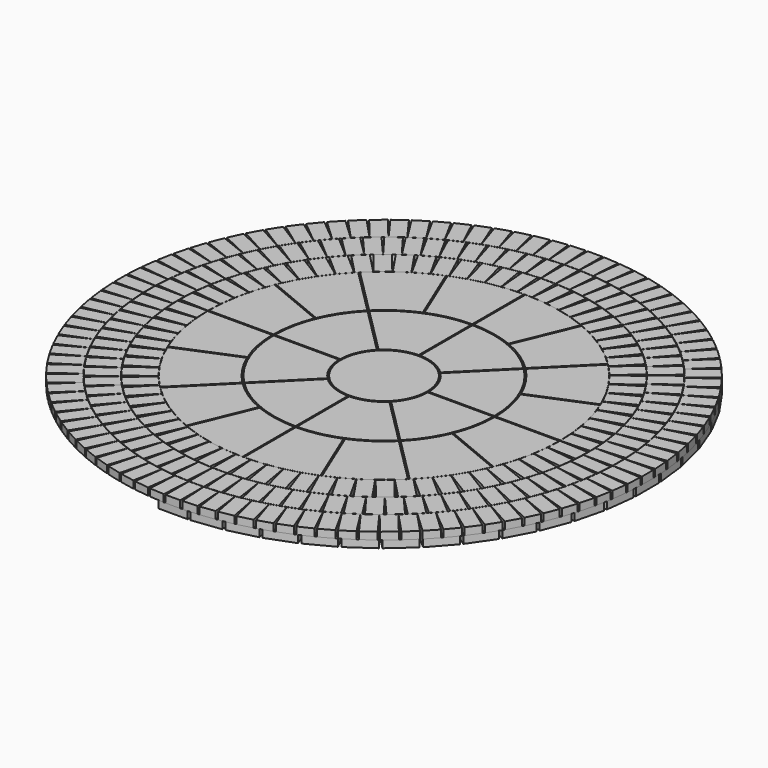
from build123d import *

# Parameters (mm, degrees)
F1_DEPTH  = 50
F3_COUNT  = 74
F4_W      = 100
F4_H      = 200
F5_DEPTH  = 50
F5_FACE_W = 100
F5_FACE_H = 200
F6_DEPTH  = 50
F7_COUNT  = 88
F9_DEPTH  = 50
F10_COUNT = 100
F12_DEPTH = 25
F13_COUNT = 16
F15_DEPTH = 25
F16_COUNT = 8
F17_R     = 295
F18_DEPTH = 25
F19_W     = 200
F19_H     = 100
F20_DEPTH = 50
F21_COUNT = 27
F21_ANGLE = 180


with BuildPart() as f1:
    # F0 (on Top) → F1 (new body)
    with BuildSketch(Plane.XY):
        Polygon((-50, 1210), (0, 1210), (50, 1210), (50, 1410), (0, 1410), (-50, 1410), align=None)
    extrude(amount=-F1_DEPTH)


with BuildPart() as f3_1:
    # F3: instance of F1
    add(f1.part.rotate(Axis((0, 0, 233.70491), (0, 0, 1)), 1 * 360 / F3_COUNT))


with BuildPart() as f3_2:
    # F3: instance of F1
    add(f1.part.rotate(Axis((0, 0, 233.70491), (0, 0, 1)), 2 * 360 / F3_COUNT))


with BuildPart() as f3_3:
    # F3: instance of F1
    add(f1.part.rotate(Axis((0, 0, 233.70491), (0, 0, 1)), 3 * 360 / F3_COUNT))


with BuildPart() as f3_4:
    # F3: instance of F1
    add(f1.part.rotate(Axis((0, 0, 233.70491), (0, 0, 1)), 4 * 360 / F3_COUNT))


with BuildPart() as f3_5:
    # F3: instance of F1
    add(f1.part.rotate(Axis((0, 0, 233.70491), (0, 0, 1)), 5 * 360 / F3_COUNT))


with BuildPart() as f3_6:
    # F3: instance of F1
    add(f1.part.rotate(Axis((0, 0, 233.70491), (0, 0, 1)), 6 * 360 / F3_COUNT))


with BuildPart() as f3_7:
    # F3: instance of F1
    add(f1.part.rotate(Axis((0, 0, 233.70491), (0, 0, 1)), 7 * 360 / F3_COUNT))


with BuildPart() as f3_8:
    # F3: instance of F1
    add(f1.part.rotate(Axis((0, 0, 233.70491), (0, 0, 1)), 8 * 360 / F3_COUNT))


with BuildPart() as f3_9:
    # F3: instance of F1
    add(f1.part.rotate(Axis((0, 0, 233.70491), (0, 0, 1)), 9 * 360 / F3_COUNT))


with BuildPart() as f3_10:
    # F3: instance of F1
    add(f1.part.rotate(Axis((0, 0, 233.70491), (0, 0, 1)), 10 * 360 / F3_COUNT))


with BuildPart() as f3_11:
    # F3: instance of F1
    add(f1.part.rotate(Axis((0, 0, 233.70491), (0, 0, 1)), 11 * 360 / F3_COUNT))


with BuildPart() as f3_12:
    # F3: instance of F1
    add(f1.part.rotate(Axis((0, 0, 233.70491), (0, 0, 1)), 12 * 360 / F3_COUNT))


with BuildPart() as f3_13:
    # F3: instance of F1
    add(f1.part.rotate(Axis((0, 0, 233.70491), (0, 0, 1)), 13 * 360 / F3_COUNT))


with BuildPart() as f3_14:
    # F3: instance of F1
    add(f1.part.rotate(Axis((0, 0, 233.70491), (0, 0, 1)), 14 * 360 / F3_COUNT))


with BuildPart() as f3_15:
    # F3: instance of F1
    add(f1.part.rotate(Axis((0, 0, 233.70491), (0, 0, 1)), 15 * 360 / F3_COUNT))


with BuildPart() as f3_16:
    # F3: instance of F1
    add(f1.part.rotate(Axis((0, 0, 233.70491), (0, 0, 1)), 16 * 360 / F3_COUNT))


with BuildPart() as f3_17:
    # F3: instance of F1
    add(f1.part.rotate(Axis((0, 0, 233.70491), (0, 0, 1)), 17 * 360 / F3_COUNT))


with BuildPart() as f3_18:
    # F3: instance of F1
    add(f1.part.rotate(Axis((0, 0, 233.70491), (0, 0, 1)), 18 * 360 / F3_COUNT))


with BuildPart() as f3_19:
    # F3: instance of F1
    add(f1.part.rotate(Axis((0, 0, 233.70491), (0, 0, 1)), 19 * 360 / F3_COUNT))


with BuildPart() as f3_20:
    # F3: instance of F1
    add(f1.part.rotate(Axis((0, 0, 233.70491), (0, 0, 1)), 20 * 360 / F3_COUNT))


with BuildPart() as f3_21:
    # F3: instance of F1
    add(f1.part.rotate(Axis((0, 0, 233.70491), (0, 0, 1)), 21 * 360 / F3_COUNT))


with BuildPart() as f3_22:
    # F3: instance of F1
    add(f1.part.rotate(Axis((0, 0, 233.70491), (0, 0, 1)), 22 * 360 / F3_COUNT))


with BuildPart() as f3_23:
    # F3: instance of F1
    add(f1.part.rotate(Axis((0, 0, 233.70491), (0, 0, 1)), 23 * 360 / F3_COUNT))


with BuildPart() as f3_24:
    # F3: instance of F1
    add(f1.part.rotate(Axis((0, 0, 233.70491), (0, 0, 1)), 24 * 360 / F3_COUNT))


with BuildPart() as f3_25:
    # F3: instance of F1
    add(f1.part.rotate(Axis((0, 0, 233.70491), (0, 0, 1)), 25 * 360 / F3_COUNT))


with BuildPart() as f3_26:
    # F3: instance of F1
    add(f1.part.rotate(Axis((0, 0, 233.70491), (0, 0, 1)), 26 * 360 / F3_COUNT))


with BuildPart() as f3_27:
    # F3: instance of F1
    add(f1.part.rotate(Axis((0, 0, 233.70491), (0, 0, 1)), 27 * 360 / F3_COUNT))


with BuildPart() as f3_28:
    # F3: instance of F1
    add(f1.part.rotate(Axis((0, 0, 233.70491), (0, 0, 1)), 28 * 360 / F3_COUNT))


with BuildPart() as f3_29:
    # F3: instance of F1
    add(f1.part.rotate(Axis((0, 0, 233.70491), (0, 0, 1)), 29 * 360 / F3_COUNT))


with BuildPart() as f3_30:
    # F3: instance of F1
    add(f1.part.rotate(Axis((0, 0, 233.70491), (0, 0, 1)), 30 * 360 / F3_COUNT))


with BuildPart() as f3_31:
    # F3: instance of F1
    add(f1.part.rotate(Axis((0, 0, 233.70491), (0, 0, 1)), 31 * 360 / F3_COUNT))


with BuildPart() as f3_32:
    # F3: instance of F1
    add(f1.part.rotate(Axis((0, 0, 233.70491), (0, 0, 1)), 32 * 360 / F3_COUNT))


with BuildPart() as f3_33:
    # F3: instance of F1
    add(f1.part.rotate(Axis((0, 0, 233.70491), (0, 0, 1)), 33 * 360 / F3_COUNT))


with BuildPart() as f3_34:
    # F3: instance of F1
    add(f1.part.rotate(Axis((0, 0, 233.70491), (0, 0, 1)), 34 * 360 / F3_COUNT))


with BuildPart() as f3_35:
    # F3: instance of F1
    add(f1.part.rotate(Axis((0, 0, 233.70491), (0, 0, 1)), 35 * 360 / F3_COUNT))


with BuildPart() as f3_36:
    # F3: instance of F1
    add(f1.part.rotate(Axis((0, 0, 233.70491), (0, 0, 1)), 36 * 360 / F3_COUNT))


with BuildPart() as f3_37:
    # F3: instance of F1
    add(f1.part.rotate(Axis((0, 0, 233.70491), (0, 0, 1)), 37 * 360 / F3_COUNT))


with BuildPart() as f3_38:
    # F3: instance of F1
    add(f1.part.rotate(Axis((0, 0, 233.70491), (0, 0, 1)), 38 * 360 / F3_COUNT))


with BuildPart() as f3_39:
    # F3: instance of F1
    add(f1.part.rotate(Axis((0, 0, 233.70491), (0, 0, 1)), 39 * 360 / F3_COUNT))


with BuildPart() as f3_40:
    # F3: instance of F1
    add(f1.part.rotate(Axis((0, 0, 233.70491), (0, 0, 1)), 40 * 360 / F3_COUNT))


with BuildPart() as f3_41:
    # F3: instance of F1
    add(f1.part.rotate(Axis((0, 0, 233.70491), (0, 0, 1)), 41 * 360 / F3_COUNT))


with BuildPart() as f3_42:
    # F3: instance of F1
    add(f1.part.rotate(Axis((0, 0, 233.70491), (0, 0, 1)), 42 * 360 / F3_COUNT))


with BuildPart() as f3_43:
    # F3: instance of F1
    add(f1.part.rotate(Axis((0, 0, 233.70491), (0, 0, 1)), 43 * 360 / F3_COUNT))


with BuildPart() as f3_44:
    # F3: instance of F1
    add(f1.part.rotate(Axis((0, 0, 233.70491), (0, 0, 1)), 44 * 360 / F3_COUNT))


with BuildPart() as f3_45:
    # F3: instance of F1
    add(f1.part.rotate(Axis((0, 0, 233.70491), (0, 0, 1)), 45 * 360 / F3_COUNT))


with BuildPart() as f3_46:
    # F3: instance of F1
    add(f1.part.rotate(Axis((0, 0, 233.70491), (0, 0, 1)), 46 * 360 / F3_COUNT))


with BuildPart() as f3_47:
    # F3: instance of F1
    add(f1.part.rotate(Axis((0, 0, 233.70491), (0, 0, 1)), 47 * 360 / F3_COUNT))


with BuildPart() as f3_48:
    # F3: instance of F1
    add(f1.part.rotate(Axis((0, 0, 233.70491), (0, 0, 1)), 48 * 360 / F3_COUNT))


with BuildPart() as f3_49:
    # F3: instance of F1
    add(f1.part.rotate(Axis((0, 0, 233.70491), (0, 0, 1)), 49 * 360 / F3_COUNT))


with BuildPart() as f3_50:
    # F3: instance of F1
    add(f1.part.rotate(Axis((0, 0, 233.70491), (0, 0, 1)), 50 * 360 / F3_COUNT))


with BuildPart() as f3_51:
    # F3: instance of F1
    add(f1.part.rotate(Axis((0, 0, 233.70491), (0, 0, 1)), 51 * 360 / F3_COUNT))


with BuildPart() as f3_52:
    # F3: instance of F1
    add(f1.part.rotate(Axis((0, 0, 233.70491), (0, 0, 1)), 52 * 360 / F3_COUNT))


with BuildPart() as f3_53:
    # F3: instance of F1
    add(f1.part.rotate(Axis((0, 0, 233.70491), (0, 0, 1)), 53 * 360 / F3_COUNT))


with BuildPart() as f3_54:
    # F3: instance of F1
    add(f1.part.rotate(Axis((0, 0, 233.70491), (0, 0, 1)), 54 * 360 / F3_COUNT))


with BuildPart() as f3_55:
    # F3: instance of F1
    add(f1.part.rotate(Axis((0, 0, 233.70491), (0, 0, 1)), 55 * 360 / F3_COUNT))


with BuildPart() as f3_56:
    # F3: instance of F1
    add(f1.part.rotate(Axis((0, 0, 233.70491), (0, 0, 1)), 56 * 360 / F3_COUNT))


with BuildPart() as f3_57:
    # F3: instance of F1
    add(f1.part.rotate(Axis((0, 0, 233.70491), (0, 0, 1)), 57 * 360 / F3_COUNT))


with BuildPart() as f3_58:
    # F3: instance of F1
    add(f1.part.rotate(Axis((0, 0, 233.70491), (0, 0, 1)), 58 * 360 / F3_COUNT))


with BuildPart() as f3_59:
    # F3: instance of F1
    add(f1.part.rotate(Axis((0, 0, 233.70491), (0, 0, 1)), 59 * 360 / F3_COUNT))


with BuildPart() as f3_60:
    # F3: instance of F1
    add(f1.part.rotate(Axis((0, 0, 233.70491), (0, 0, 1)), 60 * 360 / F3_COUNT))


with BuildPart() as f3_61:
    # F3: instance of F1
    add(f1.part.rotate(Axis((0, 0, 233.70491), (0, 0, 1)), 61 * 360 / F3_COUNT))


with BuildPart() as f3_62:
    # F3: instance of F1
    add(f1.part.rotate(Axis((0, 0, 233.70491), (0, 0, 1)), 62 * 360 / F3_COUNT))


with BuildPart() as f3_63:
    # F3: instance of F1
    add(f1.part.rotate(Axis((0, 0, 233.70491), (0, 0, 1)), 63 * 360 / F3_COUNT))


with BuildPart() as f3_64:
    # F3: instance of F1
    add(f1.part.rotate(Axis((0, 0, 233.70491), (0, 0, 1)), 64 * 360 / F3_COUNT))


with BuildPart() as f3_65:
    # F3: instance of F1
    add(f1.part.rotate(Axis((0, 0, 233.70491), (0, 0, 1)), 65 * 360 / F3_COUNT))


with BuildPart() as f3_66:
    # F3: instance of F1
    add(f1.part.rotate(Axis((0, 0, 233.70491), (0, 0, 1)), 66 * 360 / F3_COUNT))


with BuildPart() as f3_67:
    # F3: instance of F1
    add(f1.part.rotate(Axis((0, 0, 233.70491), (0, 0, 1)), 67 * 360 / F3_COUNT))


with BuildPart() as f3_68:
    # F3: instance of F1
    add(f1.part.rotate(Axis((0, 0, 233.70491), (0, 0, 1)), 68 * 360 / F3_COUNT))


with BuildPart() as f3_69:
    # F3: instance of F1
    add(f1.part.rotate(Axis((0, 0, 233.70491), (0, 0, 1)), 69 * 360 / F3_COUNT))


with BuildPart() as f3_70:
    # F3: instance of F1
    add(f1.part.rotate(Axis((0, 0, 233.70491), (0, 0, 1)), 70 * 360 / F3_COUNT))


with BuildPart() as f3_71:
    # F3: instance of F1
    add(f1.part.rotate(Axis((0, 0, 233.70491), (0, 0, 1)), 71 * 360 / F3_COUNT))


with BuildPart() as f3_72:
    # F3: instance of F1
    add(f1.part.rotate(Axis((0, 0, 233.70491), (0, 0, 1)), 72 * 360 / F3_COUNT))


with BuildPart() as f3_73:
    # F3: instance of F1
    add(f1.part.rotate(Axis((0, 0, 233.70491), (0, 0, 1)), 73 * 360 / F3_COUNT))


with BuildPart() as f5:
    # F4 (on Top) → F5 (new body)
    with BuildSketch(Plane.XY):
        with Locations((0, 1512)):
            Rectangle(F4_W, F4_H)
    extrude(amount=-F5_DEPTH)

    # F5_face (on face) → F6 (join)
    with BuildSketch(Plane(origin=(0, 1512, 0), x_dir=(1, 0, 0), z_dir=(0, 0, 1))):
        Rectangle(F5_FACE_W, F5_FACE_H)
    extrude(amount=-F6_DEPTH)


with BuildPart() as f7_1:
    # F7: instance of F5
    add(f5.part.rotate(Axis((0, 0, 233.70491), (0, 0, 1)), 1 * 360 / F7_COUNT))


with BuildPart() as f7_2:
    # F7: instance of F5
    add(f5.part.rotate(Axis((0, 0, 233.70491), (0, 0, 1)), 2 * 360 / F7_COUNT))


with BuildPart() as f7_3:
    # F7: instance of F5
    add(f5.part.rotate(Axis((0, 0, 233.70491), (0, 0, 1)), 3 * 360 / F7_COUNT))


with BuildPart() as f7_4:
    # F7: instance of F5
    add(f5.part.rotate(Axis((0, 0, 233.70491), (0, 0, 1)), 4 * 360 / F7_COUNT))


with BuildPart() as f7_5:
    # F7: instance of F5
    add(f5.part.rotate(Axis((0, 0, 233.70491), (0, 0, 1)), 5 * 360 / F7_COUNT))


with BuildPart() as f7_6:
    # F7: instance of F5
    add(f5.part.rotate(Axis((0, 0, 233.70491), (0, 0, 1)), 6 * 360 / F7_COUNT))


with BuildPart() as f7_7:
    # F7: instance of F5
    add(f5.part.rotate(Axis((0, 0, 233.70491), (0, 0, 1)), 7 * 360 / F7_COUNT))


with BuildPart() as f7_8:
    # F7: instance of F5
    add(f5.part.rotate(Axis((0, 0, 233.70491), (0, 0, 1)), 8 * 360 / F7_COUNT))


with BuildPart() as f7_9:
    # F7: instance of F5
    add(f5.part.rotate(Axis((0, 0, 233.70491), (0, 0, 1)), 9 * 360 / F7_COUNT))


with BuildPart() as f7_10:
    # F7: instance of F5
    add(f5.part.rotate(Axis((0, 0, 233.70491), (0, 0, 1)), 10 * 360 / F7_COUNT))


with BuildPart() as f7_11:
    # F7: instance of F5
    add(f5.part.rotate(Axis((0, 0, 233.70491), (0, 0, 1)), 11 * 360 / F7_COUNT))


with BuildPart() as f7_12:
    # F7: instance of F5
    add(f5.part.rotate(Axis((0, 0, 233.70491), (0, 0, 1)), 12 * 360 / F7_COUNT))


with BuildPart() as f7_13:
    # F7: instance of F5
    add(f5.part.rotate(Axis((0, 0, 233.70491), (0, 0, 1)), 13 * 360 / F7_COUNT))


with BuildPart() as f7_14:
    # F7: instance of F5
    add(f5.part.rotate(Axis((0, 0, 233.70491), (0, 0, 1)), 14 * 360 / F7_COUNT))


with BuildPart() as f7_15:
    # F7: instance of F5
    add(f5.part.rotate(Axis((0, 0, 233.70491), (0, 0, 1)), 15 * 360 / F7_COUNT))


with BuildPart() as f7_16:
    # F7: instance of F5
    add(f5.part.rotate(Axis((0, 0, 233.70491), (0, 0, 1)), 16 * 360 / F7_COUNT))


with BuildPart() as f7_17:
    # F7: instance of F5
    add(f5.part.rotate(Axis((0, 0, 233.70491), (0, 0, 1)), 17 * 360 / F7_COUNT))


with BuildPart() as f7_18:
    # F7: instance of F5
    add(f5.part.rotate(Axis((0, 0, 233.70491), (0, 0, 1)), 18 * 360 / F7_COUNT))


with BuildPart() as f7_19:
    # F7: instance of F5
    add(f5.part.rotate(Axis((0, 0, 233.70491), (0, 0, 1)), 19 * 360 / F7_COUNT))


with BuildPart() as f7_20:
    # F7: instance of F5
    add(f5.part.rotate(Axis((0, 0, 233.70491), (0, 0, 1)), 20 * 360 / F7_COUNT))


with BuildPart() as f7_21:
    # F7: instance of F5
    add(f5.part.rotate(Axis((0, 0, 233.70491), (0, 0, 1)), 21 * 360 / F7_COUNT))


with BuildPart() as f7_22:
    # F7: instance of F5
    add(f5.part.rotate(Axis((0, 0, 233.70491), (0, 0, 1)), 22 * 360 / F7_COUNT))


with BuildPart() as f7_23:
    # F7: instance of F5
    add(f5.part.rotate(Axis((0, 0, 233.70491), (0, 0, 1)), 23 * 360 / F7_COUNT))


with BuildPart() as f7_24:
    # F7: instance of F5
    add(f5.part.rotate(Axis((0, 0, 233.70491), (0, 0, 1)), 24 * 360 / F7_COUNT))


with BuildPart() as f7_25:
    # F7: instance of F5
    add(f5.part.rotate(Axis((0, 0, 233.70491), (0, 0, 1)), 25 * 360 / F7_COUNT))


with BuildPart() as f7_26:
    # F7: instance of F5
    add(f5.part.rotate(Axis((0, 0, 233.70491), (0, 0, 1)), 26 * 360 / F7_COUNT))


with BuildPart() as f7_27:
    # F7: instance of F5
    add(f5.part.rotate(Axis((0, 0, 233.70491), (0, 0, 1)), 27 * 360 / F7_COUNT))


with BuildPart() as f7_28:
    # F7: instance of F5
    add(f5.part.rotate(Axis((0, 0, 233.70491), (0, 0, 1)), 28 * 360 / F7_COUNT))


with BuildPart() as f7_29:
    # F7: instance of F5
    add(f5.part.rotate(Axis((0, 0, 233.70491), (0, 0, 1)), 29 * 360 / F7_COUNT))


with BuildPart() as f7_30:
    # F7: instance of F5
    add(f5.part.rotate(Axis((0, 0, 233.70491), (0, 0, 1)), 30 * 360 / F7_COUNT))


with BuildPart() as f7_31:
    # F7: instance of F5
    add(f5.part.rotate(Axis((0, 0, 233.70491), (0, 0, 1)), 31 * 360 / F7_COUNT))


with BuildPart() as f7_32:
    # F7: instance of F5
    add(f5.part.rotate(Axis((0, 0, 233.70491), (0, 0, 1)), 32 * 360 / F7_COUNT))


with BuildPart() as f7_33:
    # F7: instance of F5
    add(f5.part.rotate(Axis((0, 0, 233.70491), (0, 0, 1)), 33 * 360 / F7_COUNT))


with BuildPart() as f7_34:
    # F7: instance of F5
    add(f5.part.rotate(Axis((0, 0, 233.70491), (0, 0, 1)), 34 * 360 / F7_COUNT))


with BuildPart() as f7_35:
    # F7: instance of F5
    add(f5.part.rotate(Axis((0, 0, 233.70491), (0, 0, 1)), 35 * 360 / F7_COUNT))


with BuildPart() as f7_36:
    # F7: instance of F5
    add(f5.part.rotate(Axis((0, 0, 233.70491), (0, 0, 1)), 36 * 360 / F7_COUNT))


with BuildPart() as f7_37:
    # F7: instance of F5
    add(f5.part.rotate(Axis((0, 0, 233.70491), (0, 0, 1)), 37 * 360 / F7_COUNT))


with BuildPart() as f7_38:
    # F7: instance of F5
    add(f5.part.rotate(Axis((0, 0, 233.70491), (0, 0, 1)), 38 * 360 / F7_COUNT))


with BuildPart() as f7_39:
    # F7: instance of F5
    add(f5.part.rotate(Axis((0, 0, 233.70491), (0, 0, 1)), 39 * 360 / F7_COUNT))


with BuildPart() as f7_40:
    # F7: instance of F5
    add(f5.part.rotate(Axis((0, 0, 233.70491), (0, 0, 1)), 40 * 360 / F7_COUNT))


with BuildPart() as f7_41:
    # F7: instance of F5
    add(f5.part.rotate(Axis((0, 0, 233.70491), (0, 0, 1)), 41 * 360 / F7_COUNT))


with BuildPart() as f7_42:
    # F7: instance of F5
    add(f5.part.rotate(Axis((0, 0, 233.70491), (0, 0, 1)), 42 * 360 / F7_COUNT))


with BuildPart() as f7_43:
    # F7: instance of F5
    add(f5.part.rotate(Axis((0, 0, 233.70491), (0, 0, 1)), 43 * 360 / F7_COUNT))


with BuildPart() as f7_44:
    # F7: instance of F5
    add(f5.part.rotate(Axis((0, 0, 233.70491), (0, 0, 1)), 44 * 360 / F7_COUNT))


with BuildPart() as f7_45:
    # F7: instance of F5
    add(f5.part.rotate(Axis((0, 0, 233.70491), (0, 0, 1)), 45 * 360 / F7_COUNT))


with BuildPart() as f7_46:
    # F7: instance of F5
    add(f5.part.rotate(Axis((0, 0, 233.70491), (0, 0, 1)), 46 * 360 / F7_COUNT))


with BuildPart() as f7_47:
    # F7: instance of F5
    add(f5.part.rotate(Axis((0, 0, 233.70491), (0, 0, 1)), 47 * 360 / F7_COUNT))


with BuildPart() as f7_48:
    # F7: instance of F5
    add(f5.part.rotate(Axis((0, 0, 233.70491), (0, 0, 1)), 48 * 360 / F7_COUNT))


with BuildPart() as f7_49:
    # F7: instance of F5
    add(f5.part.rotate(Axis((0, 0, 233.70491), (0, 0, 1)), 49 * 360 / F7_COUNT))


with BuildPart() as f7_50:
    # F7: instance of F5
    add(f5.part.rotate(Axis((0, 0, 233.70491), (0, 0, 1)), 50 * 360 / F7_COUNT))


with BuildPart() as f7_51:
    # F7: instance of F5
    add(f5.part.rotate(Axis((0, 0, 233.70491), (0, 0, 1)), 51 * 360 / F7_COUNT))


with BuildPart() as f7_52:
    # F7: instance of F5
    add(f5.part.rotate(Axis((0, 0, 233.70491), (0, 0, 1)), 52 * 360 / F7_COUNT))


with BuildPart() as f7_53:
    # F7: instance of F5
    add(f5.part.rotate(Axis((0, 0, 233.70491), (0, 0, 1)), 53 * 360 / F7_COUNT))


with BuildPart() as f7_54:
    # F7: instance of F5
    add(f5.part.rotate(Axis((0, 0, 233.70491), (0, 0, 1)), 54 * 360 / F7_COUNT))


with BuildPart() as f7_55:
    # F7: instance of F5
    add(f5.part.rotate(Axis((0, 0, 233.70491), (0, 0, 1)), 55 * 360 / F7_COUNT))


with BuildPart() as f7_56:
    # F7: instance of F5
    add(f5.part.rotate(Axis((0, 0, 233.70491), (0, 0, 1)), 56 * 360 / F7_COUNT))


with BuildPart() as f7_57:
    # F7: instance of F5
    add(f5.part.rotate(Axis((0, 0, 233.70491), (0, 0, 1)), 57 * 360 / F7_COUNT))


with BuildPart() as f7_58:
    # F7: instance of F5
    add(f5.part.rotate(Axis((0, 0, 233.70491), (0, 0, 1)), 58 * 360 / F7_COUNT))


with BuildPart() as f7_59:
    # F7: instance of F5
    add(f5.part.rotate(Axis((0, 0, 233.70491), (0, 0, 1)), 59 * 360 / F7_COUNT))


with BuildPart() as f7_60:
    # F7: instance of F5
    add(f5.part.rotate(Axis((0, 0, 233.70491), (0, 0, 1)), 60 * 360 / F7_COUNT))


with BuildPart() as f7_61:
    # F7: instance of F5
    add(f5.part.rotate(Axis((0, 0, 233.70491), (0, 0, 1)), 61 * 360 / F7_COUNT))


with BuildPart() as f7_62:
    # F7: instance of F5
    add(f5.part.rotate(Axis((0, 0, 233.70491), (0, 0, 1)), 62 * 360 / F7_COUNT))


with BuildPart() as f7_63:
    # F7: instance of F5
    add(f5.part.rotate(Axis((0, 0, 233.70491), (0, 0, 1)), 63 * 360 / F7_COUNT))


with BuildPart() as f7_64:
    # F7: instance of F5
    add(f5.part.rotate(Axis((0, 0, 233.70491), (0, 0, 1)), 64 * 360 / F7_COUNT))


with BuildPart() as f7_65:
    # F7: instance of F5
    add(f5.part.rotate(Axis((0, 0, 233.70491), (0, 0, 1)), 65 * 360 / F7_COUNT))


with BuildPart() as f7_66:
    # F7: instance of F5
    add(f5.part.rotate(Axis((0, 0, 233.70491), (0, 0, 1)), 66 * 360 / F7_COUNT))


with BuildPart() as f7_67:
    # F7: instance of F5
    add(f5.part.rotate(Axis((0, 0, 233.70491), (0, 0, 1)), 67 * 360 / F7_COUNT))


with BuildPart() as f7_68:
    # F7: instance of F5
    add(f5.part.rotate(Axis((0, 0, 233.70491), (0, 0, 1)), 68 * 360 / F7_COUNT))


with BuildPart() as f7_69:
    # F7: instance of F5
    add(f5.part.rotate(Axis((0, 0, 233.70491), (0, 0, 1)), 69 * 360 / F7_COUNT))


with BuildPart() as f7_70:
    # F7: instance of F5
    add(f5.part.rotate(Axis((0, 0, 233.70491), (0, 0, 1)), 70 * 360 / F7_COUNT))


with BuildPart() as f7_71:
    # F7: instance of F5
    add(f5.part.rotate(Axis((0, 0, 233.70491), (0, 0, 1)), 71 * 360 / F7_COUNT))


with BuildPart() as f7_72:
    # F7: instance of F5
    add(f5.part.rotate(Axis((0, 0, 233.70491), (0, 0, 1)), 72 * 360 / F7_COUNT))


with BuildPart() as f7_73:
    # F7: instance of F5
    add(f5.part.rotate(Axis((0, 0, 233.70491), (0, 0, 1)), 73 * 360 / F7_COUNT))


with BuildPart() as f7_74:
    # F7: instance of F5
    add(f5.part.rotate(Axis((0, 0, 233.70491), (0, 0, 1)), 74 * 360 / F7_COUNT))


with BuildPart() as f7_75:
    # F7: instance of F5
    add(f5.part.rotate(Axis((0, 0, 233.70491), (0, 0, 1)), 75 * 360 / F7_COUNT))


with BuildPart() as f7_76:
    # F7: instance of F5
    add(f5.part.rotate(Axis((0, 0, 233.70491), (0, 0, 1)), 76 * 360 / F7_COUNT))


with BuildPart() as f7_77:
    # F7: instance of F5
    add(f5.part.rotate(Axis((0, 0, 233.70491), (0, 0, 1)), 77 * 360 / F7_COUNT))


with BuildPart() as f7_78:
    # F7: instance of F5
    add(f5.part.rotate(Axis((0, 0, 233.70491), (0, 0, 1)), 78 * 360 / F7_COUNT))


with BuildPart() as f7_79:
    # F7: instance of F5
    add(f5.part.rotate(Axis((0, 0, 233.70491), (0, 0, 1)), 79 * 360 / F7_COUNT))


with BuildPart() as f7_80:
    # F7: instance of F5
    add(f5.part.rotate(Axis((0, 0, 233.70491), (0, 0, 1)), 80 * 360 / F7_COUNT))


with BuildPart() as f7_81:
    # F7: instance of F5
    add(f5.part.rotate(Axis((0, 0, 233.70491), (0, 0, 1)), 81 * 360 / F7_COUNT))


with BuildPart() as f7_82:
    # F7: instance of F5
    add(f5.part.rotate(Axis((0, 0, 233.70491), (0, 0, 1)), 82 * 360 / F7_COUNT))


with BuildPart() as f7_83:
    # F7: instance of F5
    add(f5.part.rotate(Axis((0, 0, 233.70491), (0, 0, 1)), 83 * 360 / F7_COUNT))


with BuildPart() as f7_84:
    # F7: instance of F5
    add(f5.part.rotate(Axis((0, 0, 233.70491), (0, 0, 1)), 84 * 360 / F7_COUNT))


with BuildPart() as f7_85:
    # F7: instance of F5
    add(f5.part.rotate(Axis((0, 0, 233.70491), (0, 0, 1)), 85 * 360 / F7_COUNT))


with BuildPart() as f7_86:
    # F7: instance of F5
    add(f5.part.rotate(Axis((0, 0, 233.70491), (0, 0, 1)), 86 * 360 / F7_COUNT))


with BuildPart() as f7_87:
    # F7: instance of F5
    add(f5.part.rotate(Axis((0, 0, 233.70491), (0, 0, 1)), 87 * 360 / F7_COUNT))


with BuildPart() as f9:
    # F8 (on Top) → F9 (new body)
    with BuildSketch(Plane.XY):
        Polygon((50, 1814), (-50, 1814), (-50, 1614), (0, 1614), (50, 1614), align=None)
    extrude(amount=-F9_DEPTH)


with BuildPart() as f10_1:
    # F10: instance of F9
    add(f9.part.rotate(Axis((0, 0, 233.70491), (0, 0, 1)), 1 * 360 / F10_COUNT))


with BuildPart() as f10_2:
    # F10: instance of F9
    add(f9.part.rotate(Axis((0, 0, 233.70491), (0, 0, 1)), 2 * 360 / F10_COUNT))


with BuildPart() as f10_3:
    # F10: instance of F9
    add(f9.part.rotate(Axis((0, 0, 233.70491), (0, 0, 1)), 3 * 360 / F10_COUNT))


with BuildPart() as f10_4:
    # F10: instance of F9
    add(f9.part.rotate(Axis((0, 0, 233.70491), (0, 0, 1)), 4 * 360 / F10_COUNT))


with BuildPart() as f10_5:
    # F10: instance of F9
    add(f9.part.rotate(Axis((0, 0, 233.70491), (0, 0, 1)), 5 * 360 / F10_COUNT))


with BuildPart() as f10_6:
    # F10: instance of F9
    add(f9.part.rotate(Axis((0, 0, 233.70491), (0, 0, 1)), 6 * 360 / F10_COUNT))


with BuildPart() as f10_7:
    # F10: instance of F9
    add(f9.part.rotate(Axis((0, 0, 233.70491), (0, 0, 1)), 7 * 360 / F10_COUNT))


with BuildPart() as f10_8:
    # F10: instance of F9
    add(f9.part.rotate(Axis((0, 0, 233.70491), (0, 0, 1)), 8 * 360 / F10_COUNT))


with BuildPart() as f10_9:
    # F10: instance of F9
    add(f9.part.rotate(Axis((0, 0, 233.70491), (0, 0, 1)), 9 * 360 / F10_COUNT))


with BuildPart() as f10_10:
    # F10: instance of F9
    add(f9.part.rotate(Axis((0, 0, 233.70491), (0, 0, 1)), 10 * 360 / F10_COUNT))


with BuildPart() as f10_11:
    # F10: instance of F9
    add(f9.part.rotate(Axis((0, 0, 233.70491), (0, 0, 1)), 11 * 360 / F10_COUNT))


with BuildPart() as f10_12:
    # F10: instance of F9
    add(f9.part.rotate(Axis((0, 0, 233.70491), (0, 0, 1)), 12 * 360 / F10_COUNT))


with BuildPart() as f10_13:
    # F10: instance of F9
    add(f9.part.rotate(Axis((0, 0, 233.70491), (0, 0, 1)), 13 * 360 / F10_COUNT))


with BuildPart() as f10_14:
    # F10: instance of F9
    add(f9.part.rotate(Axis((0, 0, 233.70491), (0, 0, 1)), 14 * 360 / F10_COUNT))


with BuildPart() as f10_15:
    # F10: instance of F9
    add(f9.part.rotate(Axis((0, 0, 233.70491), (0, 0, 1)), 15 * 360 / F10_COUNT))


with BuildPart() as f10_16:
    # F10: instance of F9
    add(f9.part.rotate(Axis((0, 0, 233.70491), (0, 0, 1)), 16 * 360 / F10_COUNT))


with BuildPart() as f10_17:
    # F10: instance of F9
    add(f9.part.rotate(Axis((0, 0, 233.70491), (0, 0, 1)), 17 * 360 / F10_COUNT))


with BuildPart() as f10_18:
    # F10: instance of F9
    add(f9.part.rotate(Axis((0, 0, 233.70491), (0, 0, 1)), 18 * 360 / F10_COUNT))


with BuildPart() as f10_19:
    # F10: instance of F9
    add(f9.part.rotate(Axis((0, 0, 233.70491), (0, 0, 1)), 19 * 360 / F10_COUNT))


with BuildPart() as f10_20:
    # F10: instance of F9
    add(f9.part.rotate(Axis((0, 0, 233.70491), (0, 0, 1)), 20 * 360 / F10_COUNT))


with BuildPart() as f10_21:
    # F10: instance of F9
    add(f9.part.rotate(Axis((0, 0, 233.70491), (0, 0, 1)), 21 * 360 / F10_COUNT))


with BuildPart() as f10_22:
    # F10: instance of F9
    add(f9.part.rotate(Axis((0, 0, 233.70491), (0, 0, 1)), 22 * 360 / F10_COUNT))


with BuildPart() as f10_23:
    # F10: instance of F9
    add(f9.part.rotate(Axis((0, 0, 233.70491), (0, 0, 1)), 23 * 360 / F10_COUNT))


with BuildPart() as f10_24:
    # F10: instance of F9
    add(f9.part.rotate(Axis((0, 0, 233.70491), (0, 0, 1)), 24 * 360 / F10_COUNT))


with BuildPart() as f10_25:
    # F10: instance of F9
    add(f9.part.rotate(Axis((0, 0, 233.70491), (0, 0, 1)), 25 * 360 / F10_COUNT))


with BuildPart() as f10_26:
    # F10: instance of F9
    add(f9.part.rotate(Axis((0, 0, 233.70491), (0, 0, 1)), 26 * 360 / F10_COUNT))


with BuildPart() as f10_27:
    # F10: instance of F9
    add(f9.part.rotate(Axis((0, 0, 233.70491), (0, 0, 1)), 27 * 360 / F10_COUNT))


with BuildPart() as f10_28:
    # F10: instance of F9
    add(f9.part.rotate(Axis((0, 0, 233.70491), (0, 0, 1)), 28 * 360 / F10_COUNT))


with BuildPart() as f10_29:
    # F10: instance of F9
    add(f9.part.rotate(Axis((0, 0, 233.70491), (0, 0, 1)), 29 * 360 / F10_COUNT))


with BuildPart() as f10_30:
    # F10: instance of F9
    add(f9.part.rotate(Axis((0, 0, 233.70491), (0, 0, 1)), 30 * 360 / F10_COUNT))


with BuildPart() as f10_31:
    # F10: instance of F9
    add(f9.part.rotate(Axis((0, 0, 233.70491), (0, 0, 1)), 31 * 360 / F10_COUNT))


with BuildPart() as f10_32:
    # F10: instance of F9
    add(f9.part.rotate(Axis((0, 0, 233.70491), (0, 0, 1)), 32 * 360 / F10_COUNT))


with BuildPart() as f10_33:
    # F10: instance of F9
    add(f9.part.rotate(Axis((0, 0, 233.70491), (0, 0, 1)), 33 * 360 / F10_COUNT))


with BuildPart() as f10_34:
    # F10: instance of F9
    add(f9.part.rotate(Axis((0, 0, 233.70491), (0, 0, 1)), 34 * 360 / F10_COUNT))


with BuildPart() as f10_35:
    # F10: instance of F9
    add(f9.part.rotate(Axis((0, 0, 233.70491), (0, 0, 1)), 35 * 360 / F10_COUNT))


with BuildPart() as f10_36:
    # F10: instance of F9
    add(f9.part.rotate(Axis((0, 0, 233.70491), (0, 0, 1)), 36 * 360 / F10_COUNT))


with BuildPart() as f10_37:
    # F10: instance of F9
    add(f9.part.rotate(Axis((0, 0, 233.70491), (0, 0, 1)), 37 * 360 / F10_COUNT))


with BuildPart() as f10_38:
    # F10: instance of F9
    add(f9.part.rotate(Axis((0, 0, 233.70491), (0, 0, 1)), 38 * 360 / F10_COUNT))


with BuildPart() as f10_39:
    # F10: instance of F9
    add(f9.part.rotate(Axis((0, 0, 233.70491), (0, 0, 1)), 39 * 360 / F10_COUNT))


with BuildPart() as f10_40:
    # F10: instance of F9
    add(f9.part.rotate(Axis((0, 0, 233.70491), (0, 0, 1)), 40 * 360 / F10_COUNT))


with BuildPart() as f10_41:
    # F10: instance of F9
    add(f9.part.rotate(Axis((0, 0, 233.70491), (0, 0, 1)), 41 * 360 / F10_COUNT))


with BuildPart() as f10_42:
    # F10: instance of F9
    add(f9.part.rotate(Axis((0, 0, 233.70491), (0, 0, 1)), 42 * 360 / F10_COUNT))


with BuildPart() as f10_43:
    # F10: instance of F9
    add(f9.part.rotate(Axis((0, 0, 233.70491), (0, 0, 1)), 43 * 360 / F10_COUNT))


with BuildPart() as f10_44:
    # F10: instance of F9
    add(f9.part.rotate(Axis((0, 0, 233.70491), (0, 0, 1)), 44 * 360 / F10_COUNT))


with BuildPart() as f10_45:
    # F10: instance of F9
    add(f9.part.rotate(Axis((0, 0, 233.70491), (0, 0, 1)), 45 * 360 / F10_COUNT))


with BuildPart() as f10_46:
    # F10: instance of F9
    add(f9.part.rotate(Axis((0, 0, 233.70491), (0, 0, 1)), 46 * 360 / F10_COUNT))


with BuildPart() as f10_47:
    # F10: instance of F9
    add(f9.part.rotate(Axis((0, 0, 233.70491), (0, 0, 1)), 47 * 360 / F10_COUNT))


with BuildPart() as f10_48:
    # F10: instance of F9
    add(f9.part.rotate(Axis((0, 0, 233.70491), (0, 0, 1)), 48 * 360 / F10_COUNT))


with BuildPart() as f10_49:
    # F10: instance of F9
    add(f9.part.rotate(Axis((0, 0, 233.70491), (0, 0, 1)), 49 * 360 / F10_COUNT))


with BuildPart() as f10_50:
    # F10: instance of F9
    add(f9.part.rotate(Axis((0, 0, 233.70491), (0, 0, 1)), 50 * 360 / F10_COUNT))


with BuildPart() as f10_51:
    # F10: instance of F9
    add(f9.part.rotate(Axis((0, 0, 233.70491), (0, 0, 1)), 51 * 360 / F10_COUNT))


with BuildPart() as f10_52:
    # F10: instance of F9
    add(f9.part.rotate(Axis((0, 0, 233.70491), (0, 0, 1)), 52 * 360 / F10_COUNT))


with BuildPart() as f10_53:
    # F10: instance of F9
    add(f9.part.rotate(Axis((0, 0, 233.70491), (0, 0, 1)), 53 * 360 / F10_COUNT))


with BuildPart() as f10_54:
    # F10: instance of F9
    add(f9.part.rotate(Axis((0, 0, 233.70491), (0, 0, 1)), 54 * 360 / F10_COUNT))


with BuildPart() as f10_55:
    # F10: instance of F9
    add(f9.part.rotate(Axis((0, 0, 233.70491), (0, 0, 1)), 55 * 360 / F10_COUNT))


with BuildPart() as f10_56:
    # F10: instance of F9
    add(f9.part.rotate(Axis((0, 0, 233.70491), (0, 0, 1)), 56 * 360 / F10_COUNT))


with BuildPart() as f10_57:
    # F10: instance of F9
    add(f9.part.rotate(Axis((0, 0, 233.70491), (0, 0, 1)), 57 * 360 / F10_COUNT))


with BuildPart() as f10_58:
    # F10: instance of F9
    add(f9.part.rotate(Axis((0, 0, 233.70491), (0, 0, 1)), 58 * 360 / F10_COUNT))


with BuildPart() as f10_59:
    # F10: instance of F9
    add(f9.part.rotate(Axis((0, 0, 233.70491), (0, 0, 1)), 59 * 360 / F10_COUNT))


with BuildPart() as f10_60:
    # F10: instance of F9
    add(f9.part.rotate(Axis((0, 0, 233.70491), (0, 0, 1)), 60 * 360 / F10_COUNT))


with BuildPart() as f10_61:
    # F10: instance of F9
    add(f9.part.rotate(Axis((0, 0, 233.70491), (0, 0, 1)), 61 * 360 / F10_COUNT))


with BuildPart() as f10_62:
    # F10: instance of F9
    add(f9.part.rotate(Axis((0, 0, 233.70491), (0, 0, 1)), 62 * 360 / F10_COUNT))


with BuildPart() as f10_63:
    # F10: instance of F9
    add(f9.part.rotate(Axis((0, 0, 233.70491), (0, 0, 1)), 63 * 360 / F10_COUNT))


with BuildPart() as f10_64:
    # F10: instance of F9
    add(f9.part.rotate(Axis((0, 0, 233.70491), (0, 0, 1)), 64 * 360 / F10_COUNT))


with BuildPart() as f10_65:
    # F10: instance of F9
    add(f9.part.rotate(Axis((0, 0, 233.70491), (0, 0, 1)), 65 * 360 / F10_COUNT))


with BuildPart() as f10_66:
    # F10: instance of F9
    add(f9.part.rotate(Axis((0, 0, 233.70491), (0, 0, 1)), 66 * 360 / F10_COUNT))


with BuildPart() as f10_67:
    # F10: instance of F9
    add(f9.part.rotate(Axis((0, 0, 233.70491), (0, 0, 1)), 67 * 360 / F10_COUNT))


with BuildPart() as f10_68:
    # F10: instance of F9
    add(f9.part.rotate(Axis((0, 0, 233.70491), (0, 0, 1)), 68 * 360 / F10_COUNT))


with BuildPart() as f10_69:
    # F10: instance of F9
    add(f9.part.rotate(Axis((0, 0, 233.70491), (0, 0, 1)), 69 * 360 / F10_COUNT))


with BuildPart() as f10_70:
    # F10: instance of F9
    add(f9.part.rotate(Axis((0, 0, 233.70491), (0, 0, 1)), 70 * 360 / F10_COUNT))


with BuildPart() as f10_71:
    # F10: instance of F9
    add(f9.part.rotate(Axis((0, 0, 233.70491), (0, 0, 1)), 71 * 360 / F10_COUNT))


with BuildPart() as f10_72:
    # F10: instance of F9
    add(f9.part.rotate(Axis((0, 0, 233.70491), (0, 0, 1)), 72 * 360 / F10_COUNT))


with BuildPart() as f10_73:
    # F10: instance of F9
    add(f9.part.rotate(Axis((0, 0, 233.70491), (0, 0, 1)), 73 * 360 / F10_COUNT))


with BuildPart() as f10_74:
    # F10: instance of F9
    add(f9.part.rotate(Axis((0, 0, 233.70491), (0, 0, 1)), 74 * 360 / F10_COUNT))


with BuildPart() as f10_75:
    # F10: instance of F9
    add(f9.part.rotate(Axis((0, 0, 233.70491), (0, 0, 1)), 75 * 360 / F10_COUNT))


with BuildPart() as f10_76:
    # F10: instance of F9
    add(f9.part.rotate(Axis((0, 0, 233.70491), (0, 0, 1)), 76 * 360 / F10_COUNT))


with BuildPart() as f10_77:
    # F10: instance of F9
    add(f9.part.rotate(Axis((0, 0, 233.70491), (0, 0, 1)), 77 * 360 / F10_COUNT))


with BuildPart() as f10_78:
    # F10: instance of F9
    add(f9.part.rotate(Axis((0, 0, 233.70491), (0, 0, 1)), 78 * 360 / F10_COUNT))


with BuildPart() as f10_79:
    # F10: instance of F9
    add(f9.part.rotate(Axis((0, 0, 233.70491), (0, 0, 1)), 79 * 360 / F10_COUNT))


with BuildPart() as f10_80:
    # F10: instance of F9
    add(f9.part.rotate(Axis((0, 0, 233.70491), (0, 0, 1)), 80 * 360 / F10_COUNT))


with BuildPart() as f10_81:
    # F10: instance of F9
    add(f9.part.rotate(Axis((0, 0, 233.70491), (0, 0, 1)), 81 * 360 / F10_COUNT))


with BuildPart() as f10_82:
    # F10: instance of F9
    add(f9.part.rotate(Axis((0, 0, 233.70491), (0, 0, 1)), 82 * 360 / F10_COUNT))


with BuildPart() as f10_83:
    # F10: instance of F9
    add(f9.part.rotate(Axis((0, 0, 233.70491), (0, 0, 1)), 83 * 360 / F10_COUNT))


with BuildPart() as f10_84:
    # F10: instance of F9
    add(f9.part.rotate(Axis((0, 0, 233.70491), (0, 0, 1)), 84 * 360 / F10_COUNT))


with BuildPart() as f10_85:
    # F10: instance of F9
    add(f9.part.rotate(Axis((0, 0, 233.70491), (0, 0, 1)), 85 * 360 / F10_COUNT))


with BuildPart() as f10_86:
    # F10: instance of F9
    add(f9.part.rotate(Axis((0, 0, 233.70491), (0, 0, 1)), 86 * 360 / F10_COUNT))


with BuildPart() as f10_87:
    # F10: instance of F9
    add(f9.part.rotate(Axis((0, 0, 233.70491), (0, 0, 1)), 87 * 360 / F10_COUNT))


with BuildPart() as f10_88:
    # F10: instance of F9
    add(f9.part.rotate(Axis((0, 0, 233.70491), (0, 0, 1)), 88 * 360 / F10_COUNT))


with BuildPart() as f10_89:
    # F10: instance of F9
    add(f9.part.rotate(Axis((0, 0, 233.70491), (0, 0, 1)), 89 * 360 / F10_COUNT))


with BuildPart() as f10_90:
    # F10: instance of F9
    add(f9.part.rotate(Axis((0, 0, 233.70491), (0, 0, 1)), 90 * 360 / F10_COUNT))


with BuildPart() as f10_91:
    # F10: instance of F9
    add(f9.part.rotate(Axis((0, 0, 233.70491), (0, 0, 1)), 91 * 360 / F10_COUNT))


with BuildPart() as f10_92:
    # F10: instance of F9
    add(f9.part.rotate(Axis((0, 0, 233.70491), (0, 0, 1)), 92 * 360 / F10_COUNT))


with BuildPart() as f10_93:
    # F10: instance of F9
    add(f9.part.rotate(Axis((0, 0, 233.70491), (0, 0, 1)), 93 * 360 / F10_COUNT))


with BuildPart() as f10_94:
    # F10: instance of F9
    add(f9.part.rotate(Axis((0, 0, 233.70491), (0, 0, 1)), 94 * 360 / F10_COUNT))


with BuildPart() as f10_95:
    # F10: instance of F9
    add(f9.part.rotate(Axis((0, 0, 233.70491), (0, 0, 1)), 95 * 360 / F10_COUNT))


with BuildPart() as f10_96:
    # F10: instance of F9
    add(f9.part.rotate(Axis((0, 0, 233.70491), (0, 0, 1)), 96 * 360 / F10_COUNT))


with BuildPart() as f10_97:
    # F10: instance of F9
    add(f9.part.rotate(Axis((0, 0, 233.70491), (0, 0, 1)), 97 * 360 / F10_COUNT))


with BuildPart() as f10_98:
    # F10: instance of F9
    add(f9.part.rotate(Axis((0, 0, 233.70491), (0, 0, 1)), 98 * 360 / F10_COUNT))


with BuildPart() as f10_99:
    # F10: instance of F9
    add(f9.part.rotate(Axis((0, 0, 233.70491), (0, 0, 1)), 99 * 360 / F10_COUNT))


with BuildPart() as f12:
    # F11 (on Top) → F12 (new body)
    with BuildSketch(Plane.XY):
        with BuildLine():
            Line((288.127175, 708.666163), (458.423602, 1119.798107))
            ThreePointArc((458.423602, 1119.798107), (236.05929, 1186.750189), (5, 1209.989669))
            Line((5, 1209.989669), (5, 764.98366))
            ThreePointArc((5, 764.98366), (149.244096, 750.30074), (288.127175, 708.666163))
        make_face()
    extrude(amount=-F12_DEPTH)


with BuildPart() as f13_1:
    # F13: instance of F12
    add(f12.part.rotate(Axis((0, 0, 233.70491), (0, 0, 1)), 1 * 360 / F13_COUNT))


with BuildPart() as f13_2:
    # F13: instance of F12
    add(f12.part.rotate(Axis((0, 0, 233.70491), (0, 0, 1)), 2 * 360 / F13_COUNT))


with BuildPart() as f13_3:
    # F13: instance of F12
    add(f12.part.rotate(Axis((0, 0, 233.70491), (0, 0, 1)), 3 * 360 / F13_COUNT))


with BuildPart() as f13_4:
    # F13: instance of F12
    add(f12.part.rotate(Axis((0, 0, 233.70491), (0, 0, 1)), 4 * 360 / F13_COUNT))


with BuildPart() as f13_5:
    # F13: instance of F12
    add(f12.part.rotate(Axis((0, 0, 233.70491), (0, 0, 1)), 5 * 360 / F13_COUNT))


with BuildPart() as f13_6:
    # F13: instance of F12
    add(f12.part.rotate(Axis((0, 0, 233.70491), (0, 0, 1)), 6 * 360 / F13_COUNT))


with BuildPart() as f13_7:
    # F13: instance of F12
    add(f12.part.rotate(Axis((0, 0, 233.70491), (0, 0, 1)), 7 * 360 / F13_COUNT))


with BuildPart() as f13_8:
    # F13: instance of F12
    add(f12.part.rotate(Axis((0, 0, 233.70491), (0, 0, 1)), 8 * 360 / F13_COUNT))


with BuildPart() as f13_9:
    # F13: instance of F12
    add(f12.part.rotate(Axis((0, 0, 233.70491), (0, 0, 1)), 9 * 360 / F13_COUNT))


with BuildPart() as f13_10:
    # F13: instance of F12
    add(f12.part.rotate(Axis((0, 0, 233.70491), (0, 0, 1)), 10 * 360 / F13_COUNT))


with BuildPart() as f13_11:
    # F13: instance of F12
    add(f12.part.rotate(Axis((0, 0, 233.70491), (0, 0, 1)), 11 * 360 / F13_COUNT))


with BuildPart() as f13_12:
    # F13: instance of F12
    add(f12.part.rotate(Axis((0, 0, 233.70491), (0, 0, 1)), 12 * 360 / F13_COUNT))


with BuildPart() as f13_13:
    # F13: instance of F12
    add(f12.part.rotate(Axis((0, 0, 233.70491), (0, 0, 1)), 13 * 360 / F13_COUNT))


with BuildPart() as f13_14:
    # F13: instance of F12
    add(f12.part.rotate(Axis((0, 0, 233.70491), (0, 0, 1)), 14 * 360 / F13_COUNT))


with BuildPart() as f13_15:
    # F13: instance of F12
    add(f12.part.rotate(Axis((0, 0, 233.70491), (0, 0, 1)), 15 * 360 / F13_COUNT))


with BuildPart() as f15:
    # F14 (on Top) → F15 (new body)
    with BuildSketch(Plane.XY):
        with BuildLine():
            Line((212.103053, 219.17412), (530.318379, 537.389446))
            ThreePointArc((530.318379, 537.389446), (288.925991, 697.529047), (5, 754.983444))
            Line((5, 754.983444), (5, 304.959014))
            ThreePointArc((5, 304.959014), (116.718447, 281.783257), (212.103053, 219.17412))
        make_face()
    extrude(amount=-F15_DEPTH)


with BuildPart() as f16_1:
    # F16: instance of F15
    add(f15.part.rotate(Axis((0, 0, 233.70491), (0, 0, 1)), 1 * 360 / F16_COUNT))


with BuildPart() as f16_2:
    # F16: instance of F15
    add(f15.part.rotate(Axis((0, 0, 233.70491), (0, 0, 1)), 2 * 360 / F16_COUNT))


with BuildPart() as f16_3:
    # F16: instance of F15
    add(f15.part.rotate(Axis((0, 0, 233.70491), (0, 0, 1)), 3 * 360 / F16_COUNT))


with BuildPart() as f16_4:
    # F16: instance of F15
    add(f15.part.rotate(Axis((0, 0, 233.70491), (0, 0, 1)), 4 * 360 / F16_COUNT))


with BuildPart() as f16_5:
    # F16: instance of F15
    add(f15.part.rotate(Axis((0, 0, 233.70491), (0, 0, 1)), 5 * 360 / F16_COUNT))


with BuildPart() as f16_6:
    # F16: instance of F15
    add(f15.part.rotate(Axis((0, 0, 233.70491), (0, 0, 1)), 6 * 360 / F16_COUNT))


with BuildPart() as f16_7:
    # F16: instance of F15
    add(f15.part.rotate(Axis((0, 0, 233.70491), (0, 0, 1)), 7 * 360 / F16_COUNT))


with BuildPart() as f18:
    # F17 (on Top) → F18 (new body)
    with BuildSketch(Plane.XY):
        Circle(F17_R)
    extrude(amount=-F18_DEPTH)


with BuildPart() as f20:
    # F19 (on face) → F20 (new body)
    with BuildSketch(Plane(origin=(0, 0, -50), x_dir=(1, 0, 0), z_dir=(0, 0, -1))):
        with Locations((0, -1762)):
            Rectangle(F19_W, F19_H)
    extrude(amount=F20_DEPTH)


with BuildPart() as f21_1:
    # F21: instance of F20
    add(f20.part.rotate(Axis((0, 0, 233.70491), (0, 0, -1)), 1 * F21_ANGLE / (F21_COUNT - 1)))


with BuildPart() as f21_2:
    # F21: instance of F20
    add(f20.part.rotate(Axis((0, 0, 233.70491), (0, 0, -1)), 2 * F21_ANGLE / (F21_COUNT - 1)))


with BuildPart() as f21_3:
    # F21: instance of F20
    add(f20.part.rotate(Axis((0, 0, 233.70491), (0, 0, -1)), 3 * F21_ANGLE / (F21_COUNT - 1)))


with BuildPart() as f21_4:
    # F21: instance of F20
    add(f20.part.rotate(Axis((0, 0, 233.70491), (0, 0, -1)), 4 * F21_ANGLE / (F21_COUNT - 1)))


with BuildPart() as f21_5:
    # F21: instance of F20
    add(f20.part.rotate(Axis((0, 0, 233.70491), (0, 0, -1)), 5 * F21_ANGLE / (F21_COUNT - 1)))


with BuildPart() as f21_6:
    # F21: instance of F20
    add(f20.part.rotate(Axis((0, 0, 233.70491), (0, 0, -1)), 6 * F21_ANGLE / (F21_COUNT - 1)))


with BuildPart() as f21_7:
    # F21: instance of F20
    add(f20.part.rotate(Axis((0, 0, 233.70491), (0, 0, -1)), 7 * F21_ANGLE / (F21_COUNT - 1)))


with BuildPart() as f21_8:
    # F21: instance of F20
    add(f20.part.rotate(Axis((0, 0, 233.70491), (0, 0, -1)), 8 * F21_ANGLE / (F21_COUNT - 1)))


with BuildPart() as f21_9:
    # F21: instance of F20
    add(f20.part.rotate(Axis((0, 0, 233.70491), (0, 0, -1)), 9 * F21_ANGLE / (F21_COUNT - 1)))


with BuildPart() as f21_10:
    # F21: instance of F20
    add(f20.part.rotate(Axis((0, 0, 233.70491), (0, 0, -1)), 10 * F21_ANGLE / (F21_COUNT - 1)))


with BuildPart() as f21_11:
    # F21: instance of F20
    add(f20.part.rotate(Axis((0, 0, 233.70491), (0, 0, -1)), 11 * F21_ANGLE / (F21_COUNT - 1)))


with BuildPart() as f21_12:
    # F21: instance of F20
    add(f20.part.rotate(Axis((0, 0, 233.70491), (0, 0, -1)), 12 * F21_ANGLE / (F21_COUNT - 1)))


with BuildPart() as f21_13:
    # F21: instance of F20
    add(f20.part.rotate(Axis((0, 0, 233.70491), (0, 0, -1)), 13 * F21_ANGLE / (F21_COUNT - 1)))


with BuildPart() as f21_14:
    # F21: instance of F20
    add(f20.part.rotate(Axis((0, 0, 233.70491), (0, 0, -1)), 14 * F21_ANGLE / (F21_COUNT - 1)))


with BuildPart() as f21_15:
    # F21: instance of F20
    add(f20.part.rotate(Axis((0, 0, 233.70491), (0, 0, -1)), 15 * F21_ANGLE / (F21_COUNT - 1)))


with BuildPart() as f21_16:
    # F21: instance of F20
    add(f20.part.rotate(Axis((0, 0, 233.70491), (0, 0, -1)), 16 * F21_ANGLE / (F21_COUNT - 1)))


with BuildPart() as f21_17:
    # F21: instance of F20
    add(f20.part.rotate(Axis((0, 0, 233.70491), (0, 0, -1)), 17 * F21_ANGLE / (F21_COUNT - 1)))


with BuildPart() as f21_18:
    # F21: instance of F20
    add(f20.part.rotate(Axis((0, 0, 233.70491), (0, 0, -1)), 18 * F21_ANGLE / (F21_COUNT - 1)))


with BuildPart() as f21_19:
    # F21: instance of F20
    add(f20.part.rotate(Axis((0, 0, 233.70491), (0, 0, -1)), 19 * F21_ANGLE / (F21_COUNT - 1)))


with BuildPart() as f21_20:
    # F21: instance of F20
    add(f20.part.rotate(Axis((0, 0, 233.70491), (0, 0, -1)), 20 * F21_ANGLE / (F21_COUNT - 1)))


with BuildPart() as f21_21:
    # F21: instance of F20
    add(f20.part.rotate(Axis((0, 0, 233.70491), (0, 0, -1)), 21 * F21_ANGLE / (F21_COUNT - 1)))


with BuildPart() as f21_22:
    # F21: instance of F20
    add(f20.part.rotate(Axis((0, 0, 233.70491), (0, 0, -1)), 22 * F21_ANGLE / (F21_COUNT - 1)))


with BuildPart() as f21_23:
    # F21: instance of F20
    add(f20.part.rotate(Axis((0, 0, 233.70491), (0, 0, -1)), 23 * F21_ANGLE / (F21_COUNT - 1)))


with BuildPart() as f21_24:
    # F21: instance of F20
    add(f20.part.rotate(Axis((0, 0, 233.70491), (0, 0, -1)), 24 * F21_ANGLE / (F21_COUNT - 1)))


with BuildPart() as f21_25:
    # F21: instance of F20
    add(f20.part.rotate(Axis((0, 0, 233.70491), (0, 0, -1)), 25 * F21_ANGLE / (F21_COUNT - 1)))


with BuildPart() as f21_26:
    # F21: instance of F20
    add(f20.part.rotate(Axis((0, 0, 233.70491), (0, 0, -1)), 26 * F21_ANGLE / (F21_COUNT - 1)))


solid = Compound([f1.part, f3_1.part, f3_2.part, f3_3.part, f3_4.part, f3_5.part, f3_6.part, f3_7.part, f3_8.part, f3_9.part, f3_10.part, f3_11.part, f3_12.part, f3_13.part, f3_14.part, f3_15.part, f3_16.part, f3_17.part, f3_18.part, f3_19.part, f3_20.part, f3_21.part, f3_22.part, f3_23.part, f3_24.part, f3_25.part, f3_26.part, f3_27.part, f3_28.part, f3_29.part, f3_30.part, f3_31.part, f3_32.part, f3_33.part, f3_34.part, f3_35.part, f3_36.part, f3_37.part, f3_38.part, f3_39.part, f3_40.part, f3_41.part, f3_42.part, f3_43.part, f3_44.part, f3_45.part, f3_46.part, f3_47.part, f3_48.part, f3_49.part, f3_50.part, f3_51.part, f3_52.part, f3_53.part, f3_54.part, f3_55.part, f3_56.part, f3_57.part, f3_58.part, f3_59.part, f3_60.part, f3_61.part, f3_62.part, f3_63.part, f3_64.part, f3_65.part, f3_66.part, f3_67.part, f3_68.part, f3_69.part, f3_70.part, f3_71.part, f3_72.part, f3_73.part, f5.part, f7_1.part, f7_2.part, f7_3.part, f7_4.part, f7_5.part, f7_6.part, f7_7.part, f7_8.part, f7_9.part, f7_10.part, f7_11.part, f7_12.part, f7_13.part, f7_14.part, f7_15.part, f7_16.part, f7_17.part, f7_18.part, f7_19.part, f7_20.part, f7_21.part, f7_22.part, f7_23.part, f7_24.part, f7_25.part, f7_26.part, f7_27.part, f7_28.part, f7_29.part, f7_30.part, f7_31.part, f7_32.part, f7_33.part, f7_34.part, f7_35.part, f7_36.part, f7_37.part, f7_38.part, f7_39.part, f7_40.part, f7_41.part, f7_42.part, f7_43.part, f7_44.part, f7_45.part, f7_46.part, f7_47.part, f7_48.part, f7_49.part, f7_50.part, f7_51.part, f7_52.part, f7_53.part, f7_54.part, f7_55.part, f7_56.part, f7_57.part, f7_58.part, f7_59.part, f7_60.part, f7_61.part, f7_62.part, f7_63.part, f7_64.part, f7_65.part, f7_66.part, f7_67.part, f7_68.part, f7_69.part, f7_70.part, f7_71.part, f7_72.part, f7_73.part, f7_74.part, f7_75.part, f7_76.part, f7_77.part, f7_78.part, f7_79.part, f7_80.part, f7_81.part, f7_82.part, f7_83.part, f7_84.part, f7_85.part, f7_86.part, f7_87.part, f9.part, f10_1.part, f10_2.part, f10_3.part, f10_4.part, f10_5.part, f10_6.part, f10_7.part, f10_8.part, f10_9.part, f10_10.part, f10_11.part, f10_12.part, f10_13.part, f10_14.part, f10_15.part, f10_16.part, f10_17.part, f10_18.part, f10_19.part, f10_20.part, f10_21.part, f10_22.part, f10_23.part, f10_24.part, f10_25.part, f10_26.part, f10_27.part, f10_28.part, f10_29.part, f10_30.part, f10_31.part, f10_32.part, f10_33.part, f10_34.part, f10_35.part, f10_36.part, f10_37.part, f10_38.part, f10_39.part, f10_40.part, f10_41.part, f10_42.part, f10_43.part, f10_44.part, f10_45.part, f10_46.part, f10_47.part, f10_48.part, f10_49.part, f10_50.part, f10_51.part, f10_52.part, f10_53.part, f10_54.part, f10_55.part, f10_56.part, f10_57.part, f10_58.part, f10_59.part, f10_60.part, f10_61.part, f10_62.part, f10_63.part, f10_64.part, f10_65.part, f10_66.part, f10_67.part, f10_68.part, f10_69.part, f10_70.part, f10_71.part, f10_72.part, f10_73.part, f10_74.part, f10_75.part, f10_76.part, f10_77.part, f10_78.part, f10_79.part, f10_80.part, f10_81.part, f10_82.part, f10_83.part, f10_84.part, f10_85.part, f10_86.part, f10_87.part, f10_88.part, f10_89.part, f10_90.part, f10_91.part, f10_92.part, f10_93.part, f10_94.part, f10_95.part, f10_96.part, f10_97.part, f10_98.part, f10_99.part, f12.part, f13_1.part, f13_2.part, f13_3.part, f13_4.part, f13_5.part, f13_6.part, f13_7.part, f13_8.part, f13_9.part, f13_10.part, f13_11.part, f13_12.part, f13_13.part, f13_14.part, f13_15.part, f15.part, f16_1.part, f16_2.part, f16_3.part, f16_4.part, f16_5.part, f16_6.part, f16_7.part, f18.part, f20.part, f21_1.part, f21_2.part, f21_3.part, f21_4.part, f21_5.part, f21_6.part, f21_7.part, f21_8.part, f21_9.part, f21_10.part, f21_11.part, f21_12.part, f21_13.part, f21_14.part, f21_15.part, f21_16.part, f21_17.part, f21_18.part, f21_19.part, f21_20.part, f21_21.part, f21_22.part, f21_23.part, f21_24.part, f21_25.part, f21_26.part])
